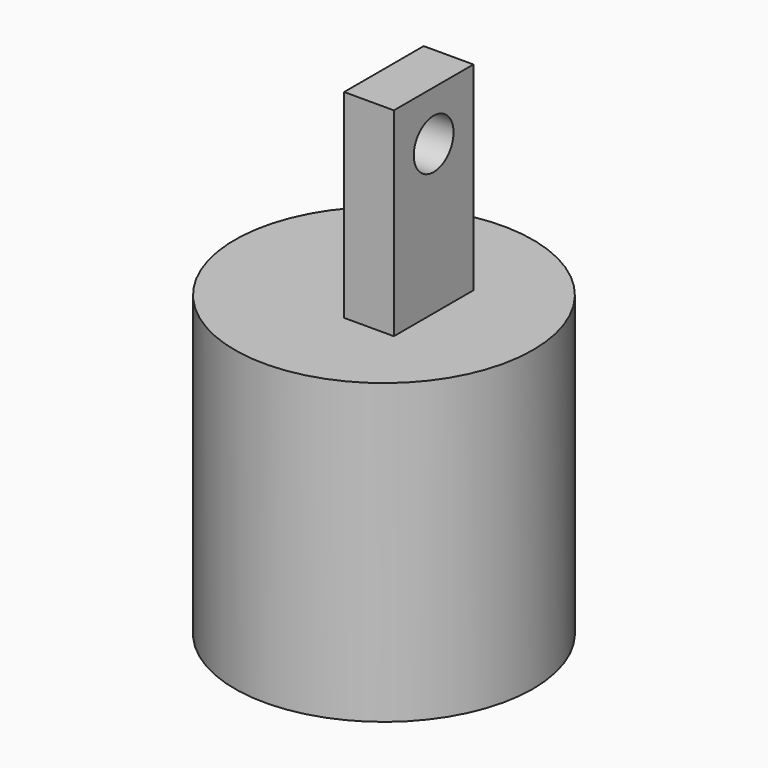
from build123d import *

# Parameters (mm, degrees)
SKETCH003_R  = 15
PAD003_DEPTH = 30
SKETCH004_W  = 5
SKETCH004_H  = 10
PAD004_DEPTH = 20
SKETCH005_R  = 2.5
POCKET_DEPTH = 20.001


with BuildPart() as part:
    # Sketch003 → Pad003 (new body)
    with BuildSketch(Plane.XY):
        Circle(SKETCH003_R)
    extrude(amount=PAD003_DEPTH)

    # Sketch004 (on Face3 of Pad003) → Pad004 (join)
    with BuildSketch(Plane.XY.offset(30)):
        with Locations((2.5, 0)):
            Rectangle(SKETCH004_W, SKETCH004_H)
    extrude(amount=PAD004_DEPTH)

    # Sketch005 (on Face6 of Pad004) → Pocket (cut, through all)
    with BuildSketch(Plane.YZ.offset(5)):
        with Locations((0, 45)):
            Circle(SKETCH005_R)
    extrude(amount=-POCKET_DEPTH, mode=Mode.SUBTRACT)


solid = part.part
